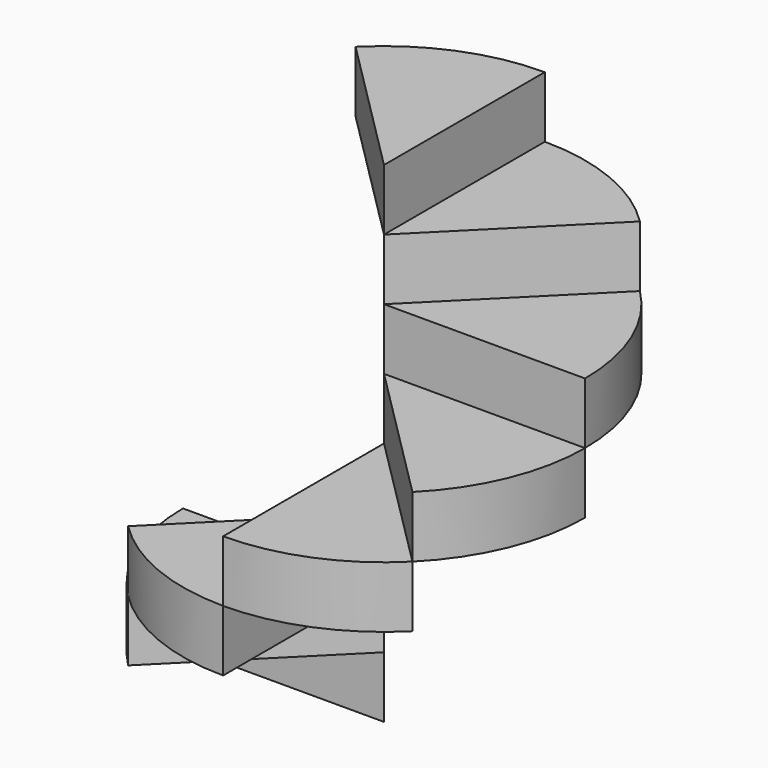
from build123d import *

# Parameters (mm, degrees)
F1_DEPTH  = 15
F2_DEPTH  = 30
F3_DEPTH  = 45
F4_DEPTH  = 60
F5_DEPTH  = 75
F6_DEPTH  = 90
F7_DEPTH  = 15
F8_DEPTH  = 30
F9_DEPTH  = 45
F10_DEPTH = 60
F11_DEPTH = 75
F12_DEPTH = 105
F13_DEPTH = 120
F14_DEPTH = 90
F15_DEPTH = 105


with BuildPart() as f1:
    # F0 (on Top) → F1 (new body)
    with BuildSketch(Plane.XY):
        Polygon((-49.2046483293, 0), (0, 0), (-24.6023241646, 24.6023241646), align=None)
        with BuildLine():
            ThreePointArc((-34.7929404995, 34.7929404995), (-45.4591674959, 18.829803711), (-49.2046483293, 0))
            Line((-49.2046483293, 0), (-24.6023241646, 24.6023241646))
            Line((-24.6023241646, 24.6023241646), (-34.7929404995, 34.7929404995))
        make_face()
    extrude(amount=F1_DEPTH)

    # F0 (on Top) → F2 (join)
    with BuildSketch(Plane.XY):
        Polygon((-24.6023241646, -24.6023241646), (0, 0), (-49.2046483293, 0), align=None)
        with BuildLine():
            Line((-24.6023241646, -24.6023241646), (-49.2046483293, 0))
            ThreePointArc((-49.2046483293, 0), (-45.4591674959, -18.829803711), (-34.7929404995, -34.7929404995))
            Line((-34.7929404995, -34.7929404995), (-24.6023241646, -24.6023241646))
        make_face()
    extrude(amount=F2_DEPTH)

    # F0 (on Top) → F3 (join)
    with BuildSketch(Plane.XY):
        Polygon((0, -49.2046483293), (0, 0), (-24.6023241646, -24.6023241646), align=None)
        with BuildLine():
            ThreePointArc((-34.7929404995, -34.7929404995), (-18.829803711, -45.4591674959), (0, -49.2046483293))
            Line((0, -49.2046483293), (-24.6023241646, -24.6023241646))
            Line((-24.6023241646, -24.6023241646), (-34.7929404995, -34.7929404995))
        make_face()
    extrude(amount=F3_DEPTH)

    # F0 (on Top) → F4 (join)
    with BuildSketch(Plane.XY):
        Polygon((24.6023241646, -24.6023241646), (0, 0), (0, -49.2046483293), align=None)
        with BuildLine():
            ThreePointArc((0, -49.2046483293), (18.829803711, -45.4591674959), (34.7929404995, -34.7929404995))
            Line((34.7929404995, -34.7929404995), (24.6023241646, -24.6023241646))
            Line((24.6023241646, -24.6023241646), (0, -49.2046483293))
        make_face()
    extrude(amount=F4_DEPTH)

    # F0 (on Top) → F5 (join)
    with BuildSketch(Plane.XY):
        Polygon((24.6023241646, -24.6023241646), (49.2046483293, 0), (0, 0), align=None)
        with BuildLine():
            ThreePointArc((34.7929404995, -34.7929404995), (45.4591674959, -18.829803711), (49.2046483293, 0))
            Line((49.2046483293, 0), (24.6023241646, -24.6023241646))
            Line((24.6023241646, -24.6023241646), (34.7929404995, -34.7929404995))
        make_face()
    extrude(amount=F5_DEPTH)

    # F0 (on Top) → F6 (join)
    with BuildSketch(Plane.XY):
        Polygon((0, 0), (49.2046483293, 0), (24.6023241646, 24.6023241646), align=None)
        with BuildLine():
            Line((24.6023241646, 24.6023241646), (49.2046483293, 0))
            ThreePointArc((49.2046483293, 0), (45.4591674959, 18.829803711), (34.7929404995, 34.7929404995))
            Line((34.7929404995, 34.7929404995), (24.6023241646, 24.6023241646))
        make_face()
    extrude(amount=F6_DEPTH)

    # F0 (on Top) → F7 (cut)
    with BuildSketch(Plane.XY):
        Polygon((-24.6023241646, -24.6023241646), (0, 0), (-49.2046483293, 0), align=None)
        with BuildLine():
            Line((-24.6023241646, -24.6023241646), (-49.2046483293, 0))
            ThreePointArc((-49.2046483293, 0), (-45.4591674959, -18.829803711), (-34.7929404995, -34.7929404995))
            Line((-34.7929404995, -34.7929404995), (-24.6023241646, -24.6023241646))
        make_face()
    extrude(amount=F7_DEPTH, mode=Mode.SUBTRACT)

    # F0 (on Top) → F8 (cut)
    with BuildSketch(Plane.XY):
        Polygon((0, -49.2046483293), (0, 0), (-24.6023241646, -24.6023241646), align=None)
        with BuildLine():
            ThreePointArc((-34.7929404995, -34.7929404995), (-18.829803711, -45.4591674959), (0, -49.2046483293))
            Line((0, -49.2046483293), (-24.6023241646, -24.6023241646))
            Line((-24.6023241646, -24.6023241646), (-34.7929404995, -34.7929404995))
        make_face()
    extrude(amount=F8_DEPTH, mode=Mode.SUBTRACT)

    # F0 (on Top) → F9 (cut)
    with BuildSketch(Plane.XY):
        Polygon((24.6023241646, -24.6023241646), (0, 0), (0, -49.2046483293), align=None)
        with BuildLine():
            ThreePointArc((0, -49.2046483293), (18.829803711, -45.4591674959), (34.7929404995, -34.7929404995))
            Line((34.7929404995, -34.7929404995), (24.6023241646, -24.6023241646))
            Line((24.6023241646, -24.6023241646), (0, -49.2046483293))
        make_face()
    extrude(amount=F9_DEPTH, mode=Mode.SUBTRACT)

    # F0 (on Top) → F10 (cut)
    with BuildSketch(Plane.XY):
        Polygon((24.6023241646, -24.6023241646), (49.2046483293, 0), (0, 0), align=None)
        with BuildLine():
            ThreePointArc((34.7929404995, -34.7929404995), (45.4591674959, -18.829803711), (49.2046483293, 0))
            Line((49.2046483293, 0), (24.6023241646, -24.6023241646))
            Line((24.6023241646, -24.6023241646), (34.7929404995, -34.7929404995))
        make_face()
    extrude(amount=F10_DEPTH, mode=Mode.SUBTRACT)

    # F0 (on Top) → F11 (cut)
    with BuildSketch(Plane.XY):
        Polygon((0, 0), (49.2046483293, 0), (24.6023241646, 24.6023241646), align=None)
        with BuildLine():
            Line((24.6023241646, 24.6023241646), (49.2046483293, 0))
            ThreePointArc((49.2046483293, 0), (45.4591674959, 18.829803711), (34.7929404995, 34.7929404995))
            Line((34.7929404995, 34.7929404995), (24.6023241646, 24.6023241646))
        make_face()
    extrude(amount=F11_DEPTH, mode=Mode.SUBTRACT)

    # F0 (on Top) → F12 (join)
    with BuildSketch(Plane.XY):
        Polygon((0, 49.2046483293), (0, 0), (24.6023241646, 24.6023241646), align=None)
        with BuildLine():
            Line((24.6023241646, 24.6023241646), (34.7929404995, 34.7929404995))
            ThreePointArc((34.7929404995, 34.7929404995), (18.829803711, 45.4591674959), (0, 49.2046483293))
            Line((0, 49.2046483293), (24.6023241646, 24.6023241646))
        make_face()
    extrude(amount=F12_DEPTH)

    # F0 (on Top) → F14 (cut)
    with BuildSketch(Plane.XY):
        Polygon((0, 49.2046483293), (0, 0), (24.6023241646, 24.6023241646), align=None)
        with BuildLine():
            Line((24.6023241646, 24.6023241646), (34.7929404995, 34.7929404995))
            ThreePointArc((34.7929404995, 34.7929404995), (18.829803711, 45.4591674959), (0, 49.2046483293))
            Line((0, 49.2046483293), (24.6023241646, 24.6023241646))
        make_face()
    extrude(amount=F14_DEPTH, mode=Mode.SUBTRACT)


with BuildPart() as f13:
    # F0 (on Top) → F13 (new body)
    with BuildSketch(Plane.XY):
        with BuildLine():
            Line((-24.6023241646, 24.6023241646), (0, 49.2046483293))
            ThreePointArc((0, 49.2046483293), (-18.829803711, 45.4591674959), (-34.7929404995, 34.7929404995))
            Line((-34.7929404995, 34.7929404995), (-24.6023241646, 24.6023241646))
        make_face()
        Polygon((-24.6023241646, 24.6023241646), (0, 0), (0, 49.2046483293), align=None)
    extrude(amount=F13_DEPTH)

    # F0 (on Top) → F15 (cut)
    with BuildSketch(Plane.XY):
        Polygon((-24.6023241646, 24.6023241646), (0, 0), (0, 49.2046483293), align=None)
        with BuildLine():
            Line((-24.6023241646, 24.6023241646), (0, 49.2046483293))
            ThreePointArc((0, 49.2046483293), (-18.829803711, 45.4591674959), (-34.7929404995, 34.7929404995))
            Line((-34.7929404995, 34.7929404995), (-24.6023241646, 24.6023241646))
        make_face()
    extrude(amount=F15_DEPTH, mode=Mode.SUBTRACT)


solid = Compound([f1.part, f13.part])
